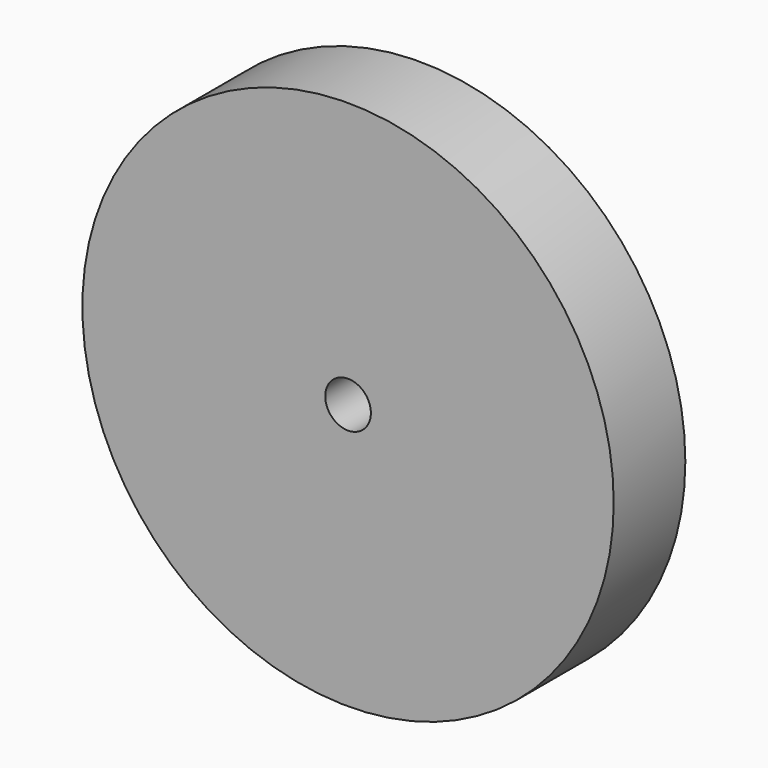
from build123d import *

# Parameters (mm, degrees)
F0_R     = 75.3780720423
F0_R_2   = 60.5024045165
F0_R_3   = 12.2853005347
F0_R_4   = 6.4794512833
F1_DEPTH = 25.4


with BuildPart() as f1:
    # F0 (on Front) → F1 (new body)
    with BuildSketch(Plane.XZ):
        Circle(F0_R)
        Circle(F0_R_2, mode=Mode.SUBTRACT)
        Circle(F0_R)
        Circle(F0_R_2, mode=Mode.SUBTRACT)
        Circle(F0_R_2)
        Circle(F0_R_3, mode=Mode.SUBTRACT)
        Circle(F0_R_3)
        Circle(F0_R_4, mode=Mode.SUBTRACT)
    extrude(amount=F1_DEPTH)


solid = f1.part
